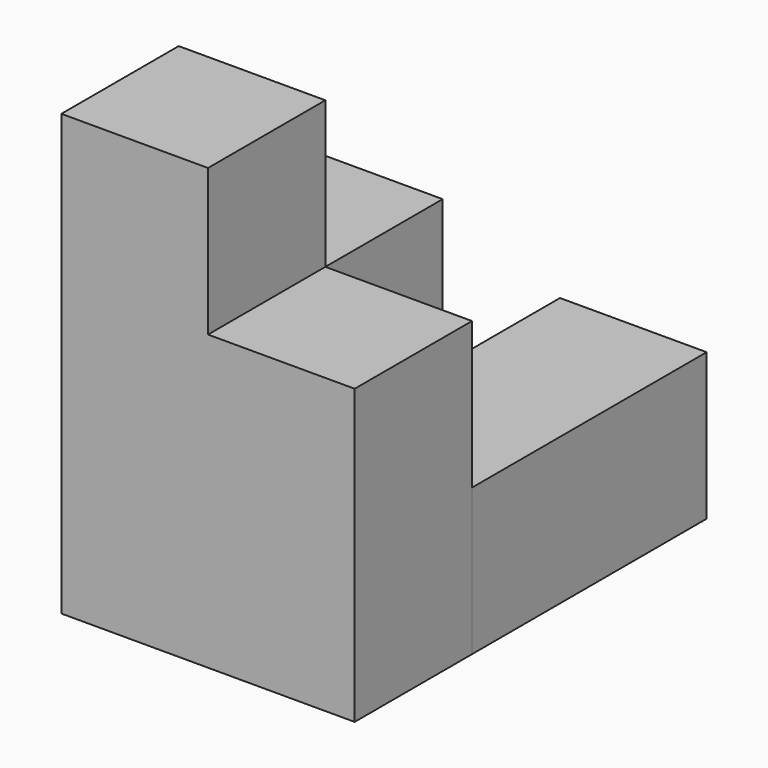
from build123d import *

# Parameters (mm, degrees)
F0_W     = 19.05
F0_H     = 19.05
F1_DEPTH = 19.05
F2_W     = 19.05
F2_H     = 19.05
F3_DEPTH = 19.05
F4_W     = 19.05
F4_H     = 19.05
F5_DEPTH = 38.1


with BuildPart() as f1:
    # F0 (on Front) → F1 (new body)
    with BuildSketch(Plane.XZ):
        with Locations((9.525, 9.525)):
            Rectangle(F0_W, F0_H)
        with Locations((9.525, -9.525)):
            Rectangle(F0_W, F0_H)
        with Locations((28.575, 9.525)):
            Rectangle(F0_W, F0_H)
        with Locations((28.575, -9.525)):
            Rectangle(F0_W, F0_H)
        with Locations((9.525, 28.575)):
            Rectangle(F0_W, F0_H)
    extrude(amount=F1_DEPTH)

    # F2 (on face) → F3 (join)
    with BuildSketch(Plane(origin=(0, 0, 0), x_dir=(-1, 0, 0), z_dir=(0, 1, 0))):
        with Locations((-9.525, 9.525)):
            Rectangle(F2_W, F2_H)
    extrude(amount=F3_DEPTH)


with BuildPart() as f5:
    # F4 (on Front) → F5 (new body)
    with BuildSketch(Plane.XZ):
        with Locations((47.807666, -9.525)):
            Rectangle(F4_W, F4_H)
    extrude(amount=-F5_DEPTH)


with BuildPart() as f5_1:
    # F6: moved
    add(f5.part.moved(Location((-19.232677, 0, 0))))


solid = Compound([f1.part, f5_1.part])
